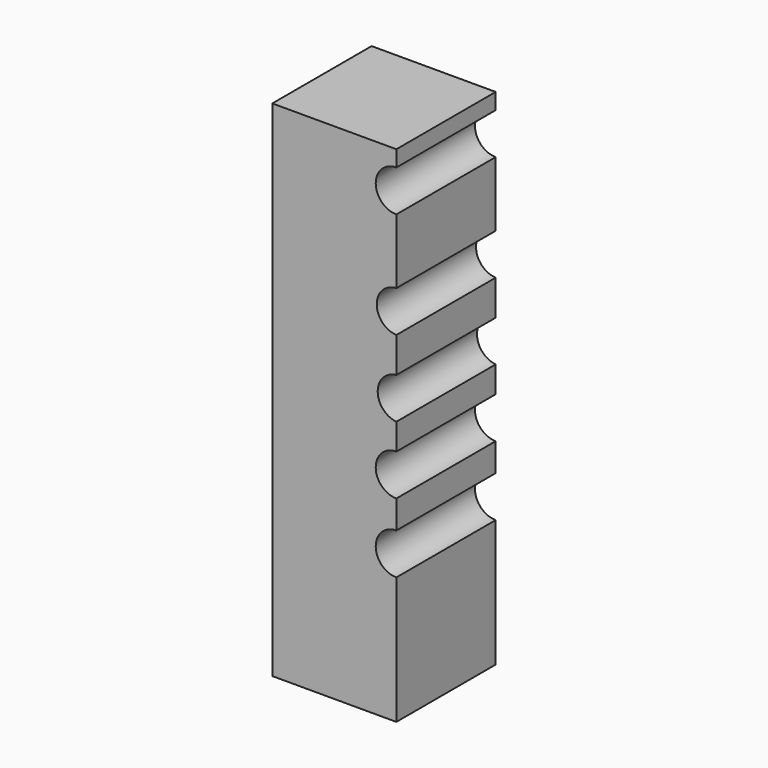
from build123d import *

# Parameters (mm, degrees)
F1_DEPTH = 25.4


with BuildPart() as f1:
    # F0 (on Front) → F1 (new body)
    with BuildSketch(Plane.XZ):
        with BuildLine():
            Line((-17.362576, 52.493874), (-42.746462, 52.493874))
            Line((-42.746462, 52.493874), (-42.746462, -50.666232))
            Line((-42.746462, -50.666232), (-17.362576, -50.666232))
            Line((-17.362576, -50.666232), (-17.362576, -24.634277))
            ThreePointArc((-17.362576, -24.634277), (-21.588211, -20.408642), (-17.362576, -16.183006))
            Line((-17.362576, -16.183006), (-17.362576, -10.419303))
            ThreePointArc((-17.362576, -10.419303), (-21.588211, -6.193668), (-17.362576, -1.968033))
            Line((-17.362576, -1.968033), (-17.362576, 3.409093))
            ThreePointArc((-17.362576, 3.409093), (-21.182069, 7.615165), (-17.362576, 11.821237))
            Line((-17.362576, 11.821237), (-17.362576, 19.030885))
            ThreePointArc((-17.362576, 19.030885), (-21.38514, 23.251638), (-17.362576, 27.472391))
            Line((-17.362576, 27.472391), (-17.362576, 40.754604))
            ThreePointArc((-17.362576, 40.754604), (-21.588211, 44.980239), (-17.362576, 49.205874))
            Line((-17.362576, 49.205874), (-17.362576, 52.493874))
        make_face()
    extrude(amount=F1_DEPTH)


solid = f1.part
